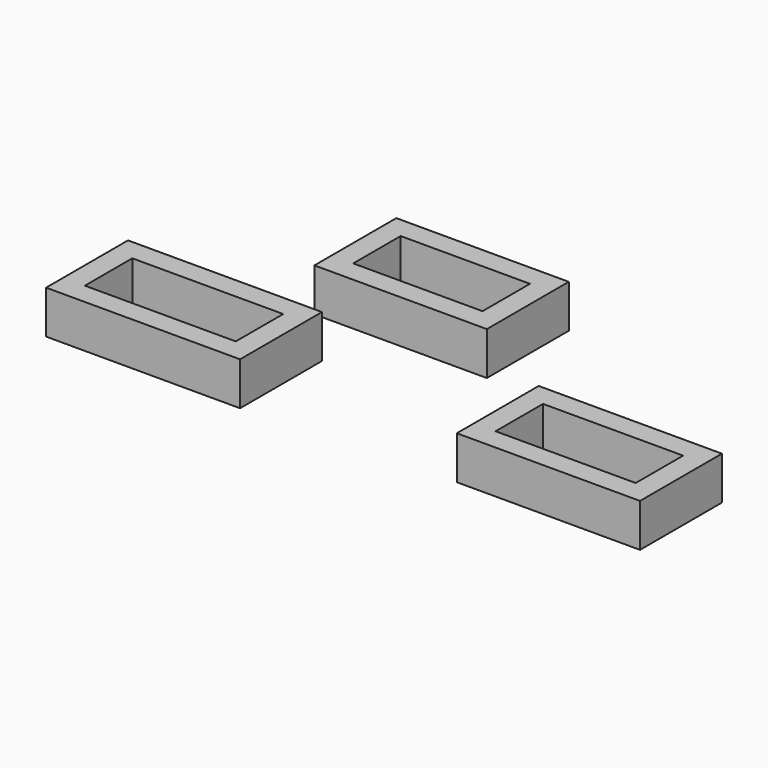
from build123d import *

# Parameters (mm, degrees)
F0_W     = 18
F0_H     = 9.5
F0_W_2   = 14
F0_H_2   = 5.5
F0_W_3   = 16
F0_W_4   = 12
F0_W_5   = 17
F0_W_6   = 13
F1_DEPTH = 4


with BuildPart() as f1:
    # F0 (on Top) → F1 (new body)
    with BuildSketch(Plane.XY):
        with Locations((-12.000001, -14.872099)):
            Rectangle(F0_W, F0_H)
        with Locations((-12.000001, -14.872099)):
            Rectangle(F0_W_2, F0_H_2, mode=Mode.SUBTRACT)
        Rectangle(F0_W_3, F0_H)
        Rectangle(F0_W_4, F0_H_2, mode=Mode.SUBTRACT)
        with Locations((25.008738, -14.121265)):
            Rectangle(F0_W_5, F0_H)
        with Locations((25.008738, -14.121265)):
            Rectangle(F0_W_6, F0_H_2, mode=Mode.SUBTRACT)
    extrude(amount=F1_DEPTH)


solid = f1.part
